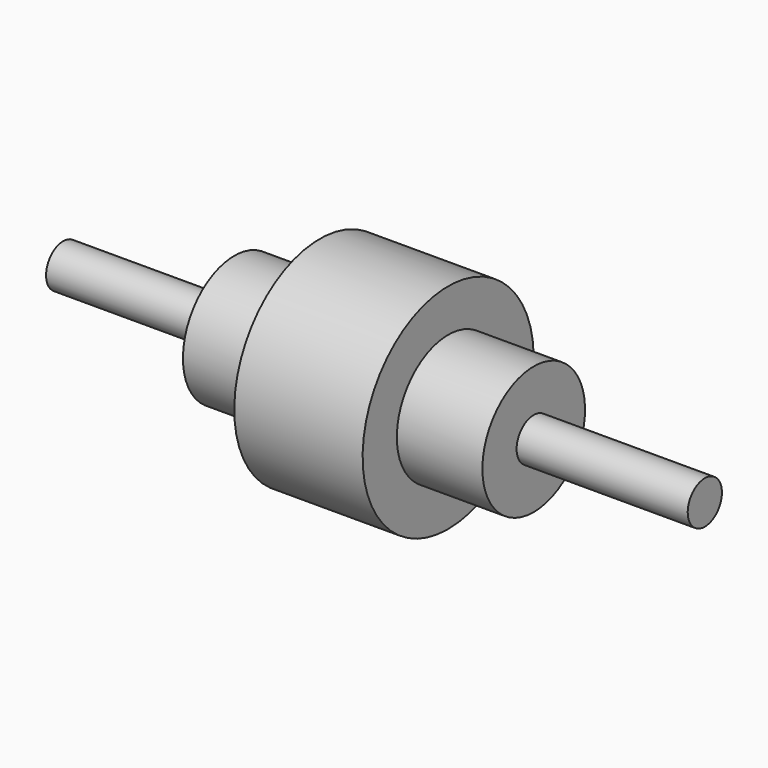
from build123d import *

# Parameters (mm, degrees)
F0_W = 80
F0_H = 10


with BuildPart() as f1:
    # F0 (on Front) → F1 (revolve)
    with BuildSketch(Plane.XZ):
        with Locations((110, -5)):
            Rectangle(F0_W, F0_H)
        with Locations((-110, -5)):
            Rectangle(F0_W, F0_H)
        Polygon((70, 0), (30, 0), (30, -30), (70, -30), (70, -10), align=None)
        Polygon((-30, 0), (-70, 0), (-70, -10), (-70, -30), (-30, -30), align=None)
        Polygon((0, 0), (-30, 0), (-30, -30), (-30, -50), (0, -50), (30, -50), (30, -30), (30, 0), align=None)
    revolve(axis=Axis((0, 0, 0), (1, 0, 0)))


solid = f1.part
